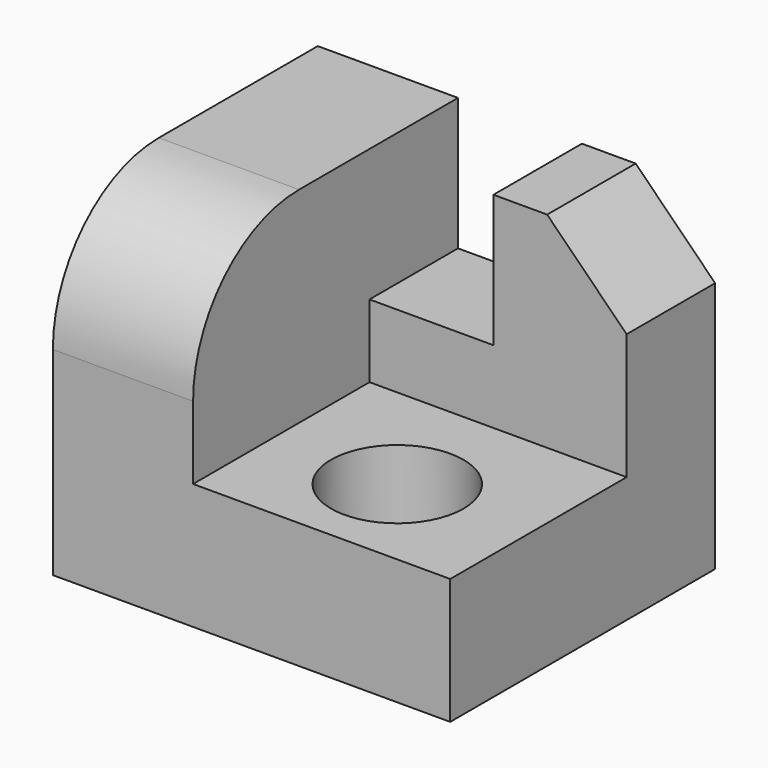
from build123d import *

# Parameters (mm, degrees)
F0_W     = 152.4
F0_H     = 127
F1_DEPTH = 127
F3_DEPTH = 78.74
F2_W     = 47.5228335708
F2_H     = 42.4285548031
F4_DEPTH = 50.8
F5_SIZE  = 30.48
F6_R     = 25.4
F7_DEPTH = 38.1
F8_R     = 50.8


with BuildPart() as f1:
    # F0 (on Top) → F1 (new body)
    with BuildSketch(Plane.XY):
        Rectangle(F0_W, F0_H)
    extrude(amount=F1_DEPTH)

    # F2 (on face) → F3 (cut)
    with BuildSketch(Plane.XY.offset(127)):
        Polygon((-22.4164314568, -24.2097526789), (-22.4164314568, -63.5), (76.2, -63.5), (76.2, 21.0714451969), (40.7979153097, 21.0714451969), (25.106402114, 21.0714451969), (-22.4164314568, 21.0714451969), align=None)
    extrude(amount=-F3_DEPTH, mode=Mode.SUBTRACT)

    # F2 (on face) → F4 (cut)
    with BuildSketch(Plane.XY.offset(127)):
        with Locations((1.3449853286, 42.2857225984)):
            Rectangle(F2_W, F2_H)
    extrude(amount=-F4_DEPTH, mode=Mode.SUBTRACT)

    # F5
    f5_edges = [f1.edges().sort_by_distance(p)[0] for p in [
        (76.2, 42.285723, 127),
    ]]
    chamfer(f5_edges, length=F5_SIZE)

    # F6 (on face) → F7 (cut)
    with BuildSketch(Plane.XY.offset(48.26)):
        with Locations((25.4, -25.4)):
            Circle(F6_R)
    extrude(amount=-F7_DEPTH, mode=Mode.SUBTRACT)

    # F8
    f8_edges = [f1.edges().sort_by_distance(p)[0] for p in [
        (-49.308216, -63.5, 127),
    ]]
    fillet(f8_edges, radius=F8_R)


solid = f1.part
